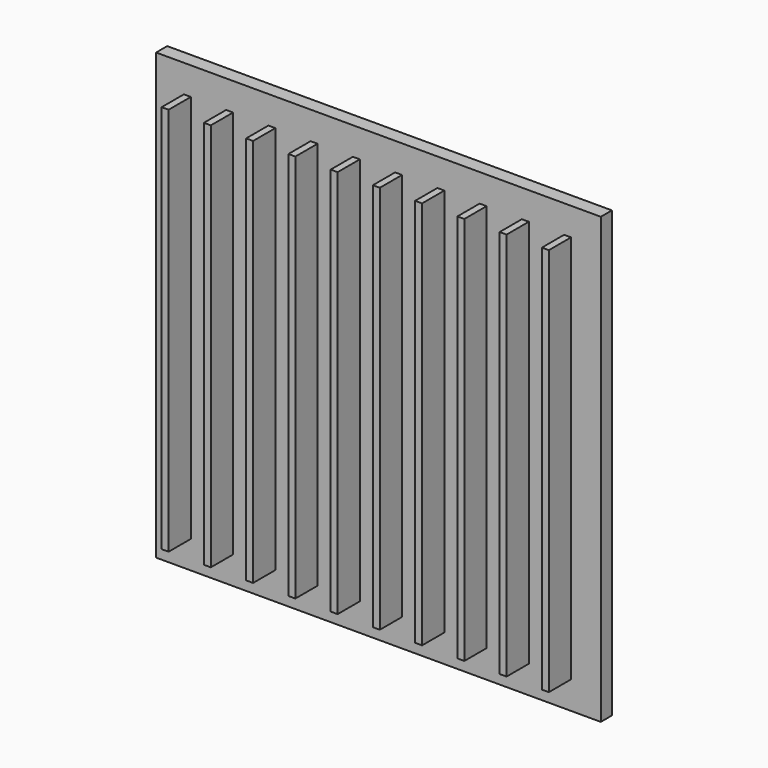
from build123d import *

# Parameters (mm, degrees)
F0_W     = 101.6
F0_H     = 101.6
F1_DEPTH = 3.175
F2_W     = 1.5875
F2_H     = 88.9
F3_DEPTH = 6.35


with BuildPart() as f1:
    # F0 (on Front) → F1 (new body)
    with BuildSketch(Plane.XZ):
        Rectangle(F0_W, F0_H)
    extrude(amount=-F1_DEPTH)

    # F2 (on face) → F3 (join)
    with BuildSketch(Plane.XZ):
        with Locations((-43.65625, 0)):
            Rectangle(F2_W, F2_H)
        with Locations((-34.00425, 0)):
            Rectangle(F2_W, F2_H)
        with Locations((-24.35225, 0)):
            Rectangle(F2_W, F2_H)
        with Locations((-14.70025, 0)):
            Rectangle(F2_W, F2_H)
        with Locations((-5.04825, 0)):
            Rectangle(F2_W, F2_H)
        with Locations((4.60375, 0)):
            Rectangle(F2_W, F2_H)
        with Locations((14.25575, 0)):
            Rectangle(F2_W, F2_H)
        with Locations((23.90775, 0)):
            Rectangle(F2_W, F2_H)
        with Locations((33.55975, 0)):
            Rectangle(F2_W, F2_H)
        with Locations((43.21175, 0)):
            Rectangle(F2_W, F2_H)
    extrude(amount=F3_DEPTH)


solid = f1.part
